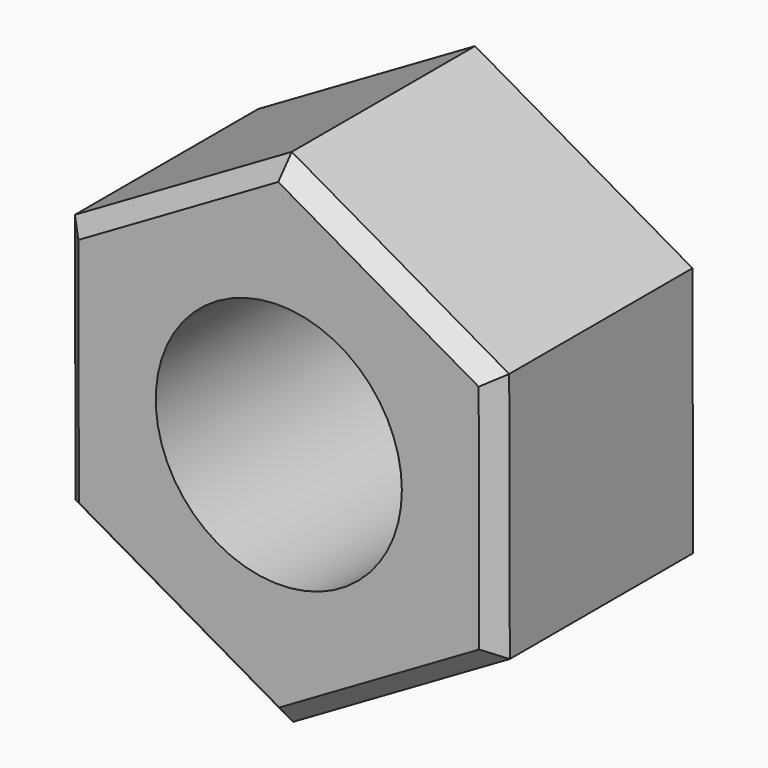
from build123d import *

# Parameters (mm, degrees)
F0_R     = 18.422142
F1_DEPTH = 39.37
F2_SIZE  = 2.54


with BuildPart() as f1:
    # F0 (on Front) → F1 (new body)
    with BuildSketch(Plane.XZ):
        Polygon((32.458971, 18.845175), (-0.090914, 37.532881), (-32.549885, 18.687706), (-32.458971, -18.845175), (0.090914, -37.532881), (32.549885, -18.687706), align=None)
        Circle(F0_R, mode=Mode.SUBTRACT)
    extrude(amount=F1_DEPTH)

    # F2
    f2_edges = [f1.edges().sort_by_distance(p)[0] for p in [
        (-32.504428, 0, -0.078734),
        (-16.184028, 0, -28.189028),
        (16.3204, 0, -28.110293),
        (32.504428, 0, 0.078734),
        (16.184028, 0, 28.189028),
        (-16.3204, 0, 28.110293),
        (16.184028, -39.37, 28.189028),
        (-16.3204, -39.37, 28.110293),
        (-32.504428, -39.37, -0.078734),
        (-16.184028, -39.37, -28.189028),
        (16.3204, -39.37, -28.110293),
        (32.504428, -39.37, 0.078734),
    ]]
    chamfer(f2_edges, length=F2_SIZE)


solid = f1.part
